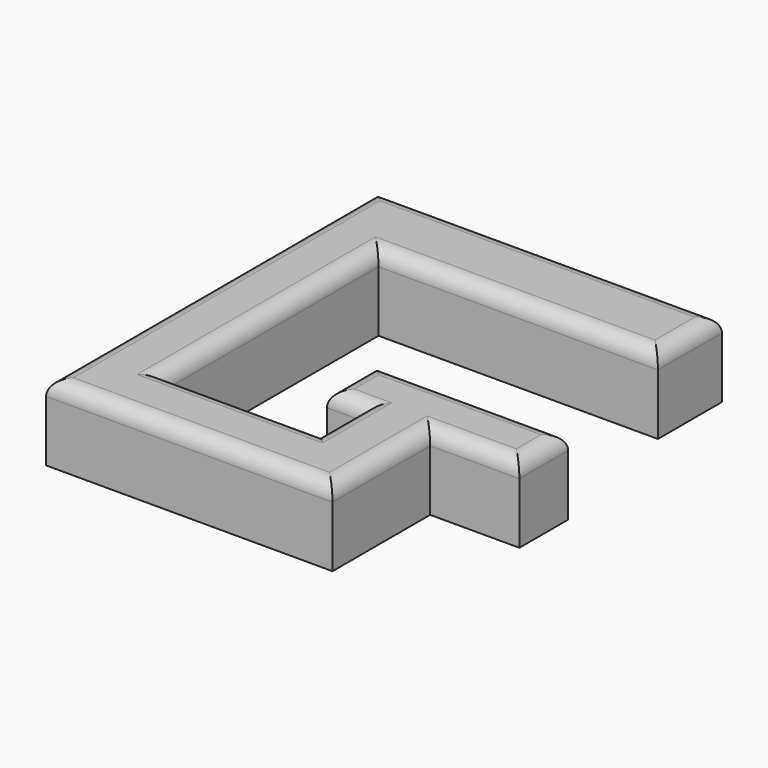
from build123d import *

# Parameters (mm, degrees)
F1_DEPTH = 10
F2_R     = 2


with BuildPart() as f1:
    # F0 (on Top) → F1 (new body)
    with BuildSketch(Plane.XY):
        Polygon((0, -10.527186), (0, 0), (-36.7762, 0), (-45.427747, 0), (-45.427747, -54.40288), (-7.731728, -54.40288), (-7.731728, -38.335726), (4.009656, -38.335726), (4.009656, -30.302146), (-21.327011, -30.302146), (-21.327011, -38.335726), (-16.383274, -38.335726), (-16.383274, -45.751333), (-36.7762, -45.751333), (-36.7762, -10.527186), (-8.349694, -10.527186), align=None)
    extrude(amount=F1_DEPTH)

    # F2
    f2_edges = [f1.edges().sort_by_distance(p)[0] for p in [
        (0, -5.263593, 10),
        (-22.713874, 0, 10),
        (-45.427747, -27.20144, 10),
        (-26.579737, -54.40288, 10),
        (-7.731728, -46.369303, 10),
        (-1.861036, -38.335726, 10),
        (4.009656, -34.318936, 10),
        (-8.658678, -30.302146, 10),
        (-21.327011, -34.318936, 10),
        (-18.855142, -38.335726, 10),
        (-16.383274, -42.043529, 10),
        (-26.579737, -45.751333, 10),
        (-36.7762, -28.13926, 10),
        (-18.3881, -10.527186, 10),
    ]]
    fillet(f2_edges, radius=F2_R)


solid = f1.part
